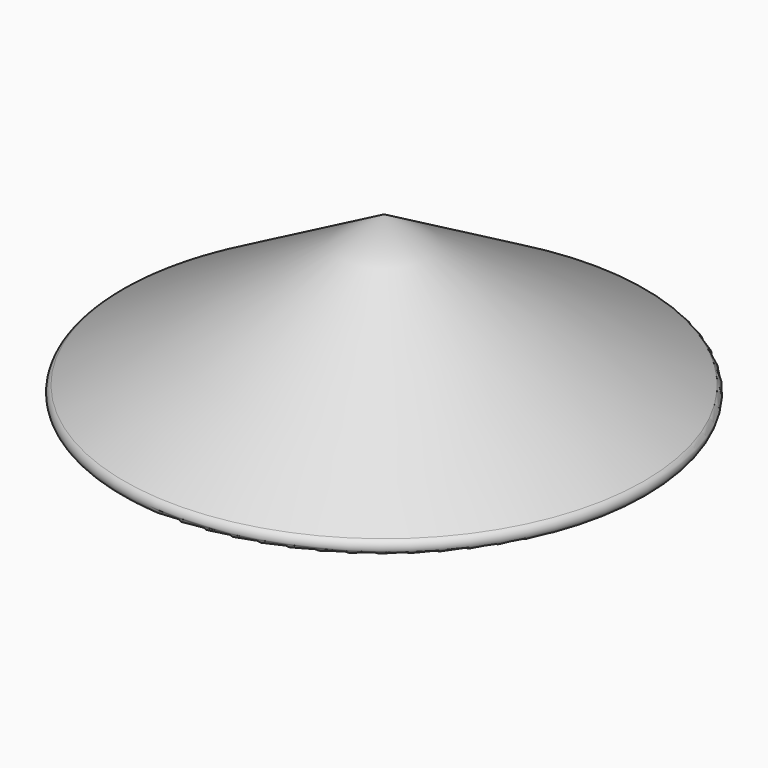
from build123d import *

# Parameters (mm, degrees)
F0_R     = 75
F1_DEPTH = 50
F1_TAPER = 60
F2_W     = 30
F2_H     = 20
F3_DEPTH = 25
F4_R     = 2


with BuildPart() as f1:
    # F0 (on Top) → F1 (new body)
    with BuildSketch(Plane.XY):
        Circle(F0_R)
    extrude(amount=F1_DEPTH, taper=F1_TAPER)

    # F2 (on Top) → F3 (join)
    with BuildSketch(Plane.XY):
        Rectangle(F2_W, F2_H)
    extrude(amount=-F3_DEPTH)

    # F4
    f4_edges = [f1.edges().sort_by_distance(p)[0] for p in [
        (-75, 0, 0),
    ]]
    fillet(f4_edges, radius=F4_R)


solid = f1.part
